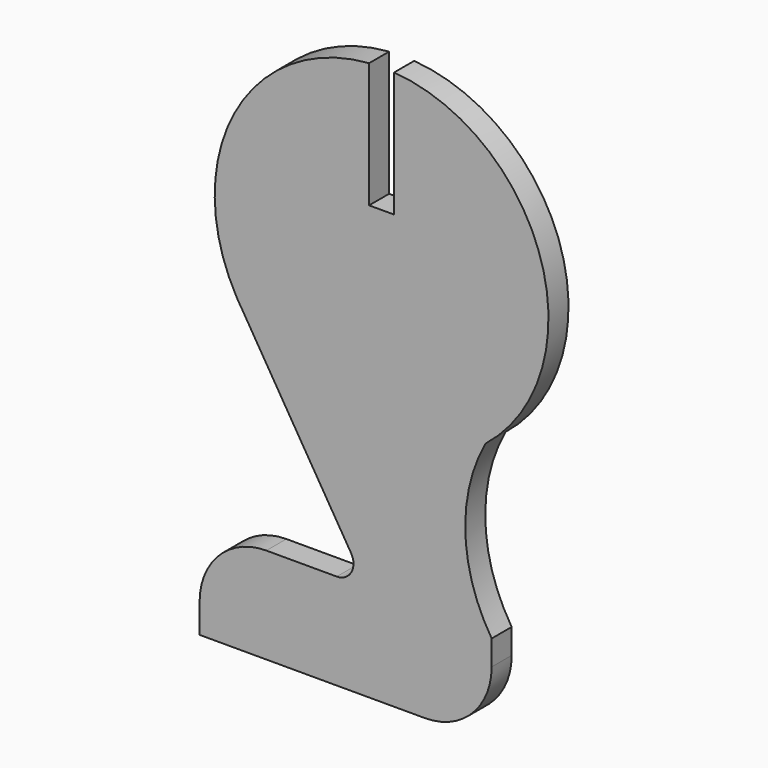
from build123d import *

# Parameters (mm, degrees)
F1_DEPTH = 3


with BuildPart() as f1:
    # F0 (on Front) → F1 (new body)
    with BuildSketch(Plane.XZ):
        with BuildLine():
            Line((-30.123222, 26.928305), (-30.123222, 41.928305))
            ThreePointArc((-30.123222, 41.928305), (-46.266543, 31.403405), (-46.028907, 12.133639))
            Line((-46.028907, 12.133639), (-45.373068, 11.055652))
            Line((-45.373068, 11.055652), (-32.285383, -10.456249))
            ThreePointArc((-32.285383, -10.456249), (-32.250589, -12.475808), (-33.99401, -13.495765))
            Line((-33.99401, -13.495765), (-42.436163, -13.495765))
            ThreePointArc((-42.436163, -13.495765), (-48.093017, -15.838911), (-50.436163, -21.495765))
            Line((-50.436163, -21.495765), (-50.436163, -24.992765))
            Line((-50.436163, -24.992765), (-23.436163, -24.992765))
            ThreePointArc((-23.436163, -24.992765), (-17.779309, -22.649619), (-15.436163, -16.992765))
            Line((-15.436163, -16.992765), (-15.436163, -13.992765))
            ThreePointArc((-15.436163, -13.992765), (-18.585945, -3.940307), (-16.190902, 6.318192))
            ThreePointArc((-16.190902, 6.318192), (-9.503928, 27.854266), (-27.123222, 41.928305))
            Line((-27.123222, 41.928305), (-27.123222, 26.928305))
            Line((-27.123222, 26.928305), (-30.123222, 26.928305))
        make_face()
        with BuildLine():
            Line((-45.373068, 11.055652), (-46.028907, 12.133639))
            ThreePointArc((-46.028907, 12.133639), (-45.709491, 11.589472), (-45.373068, 11.055652))
        make_face()
    extrude(amount=F1_DEPTH)


solid = f1.part
